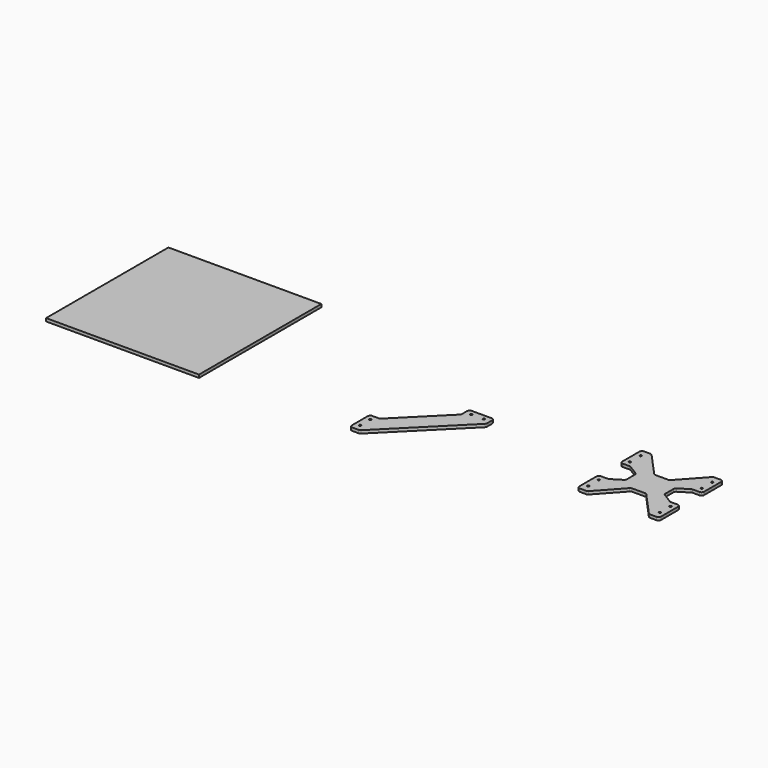
from build123d import *

# Parameters (mm, degrees)
F0_R     = 2
F1_DEPTH = 6
F2_R     = 5
F3_W     = 304.8
F3_H     = 304.8
F4_DEPTH = 6


with BuildPart() as f1:
    # F0 (on Top) → F1 (new body)
    with BuildSketch(Plane.XY):
        Polygon((20.752255, 189.252079), (0.752255, 189.252079), (0.752255, 136.483288), (20.752255, 136.483288), (43.727751, 122.214279), (43.727751, 96.289878), (20.752255, 82.02087), (0.752255, 82.02087), (0.752255, 29.252079), (20.752255, 29.252079), (67.252255, 80.372884), (82.252255, 80.372884), (97.252255, 80.372884), (143.752255, 29.252079), (163.752255, 29.252079), (163.752255, 82.02087), (143.752255, 82.02087), (120.776759, 96.289878), (120.776759, 122.214279), (143.752255, 136.483288), (163.752255, 136.483288), (163.752255, 189.252079), (143.752255, 189.252079), (97.252255, 138.131273), (82.252255, 138.131273), (67.252255, 138.131273), align=None)
        with Locations((10.752255, 43.99876)):
            Circle(F0_R, mode=Mode.SUBTRACT)
        with Locations((10.752255, 70.383156)):
            Circle(F0_R, mode=Mode.SUBTRACT)
        with Locations((153.752255, 43.99876)):
            Circle(F0_R, mode=Mode.SUBTRACT)
        with Locations((153.752255, 70.383156)):
            Circle(F0_R, mode=Mode.SUBTRACT)
        with Locations((10.752255, 148.121001)):
            Circle(F0_R, mode=Mode.SUBTRACT)
        with Locations((10.752255, 174.505397)):
            Circle(F0_R, mode=Mode.SUBTRACT)
        with Locations((153.752255, 148.121001)):
            Circle(F0_R, mode=Mode.SUBTRACT)
        with Locations((153.752255, 174.505397)):
            Circle(F0_R, mode=Mode.SUBTRACT)
        Polygon((-404.153171, 18.474887), (-404.153171, -31.525113), (-384.153171, -31.525113), (-244.153171, 108.474887), (-244.153171, 128.474887), (-264.153171, 128.474887), (-294.153171, 128.474887), (-294.153171, 108.474887), (-384.153171, 18.474887), align=None)
        with Locations((-394.153171, -18.162827)):
            Circle(F0_R, mode=Mode.SUBTRACT)
        with Locations((-394.153171, 6.837173)):
            Circle(F0_R, mode=Mode.SUBTRACT)
        with Locations((-281.653171, 118.474887)):
            Circle(F0_R, mode=Mode.SUBTRACT)
        with Locations((-256.653171, 118.474887)):
            Circle(F0_R, mode=Mode.SUBTRACT)
    extrude(amount=F1_DEPTH)

    # F2
    f2_edges = [f1.edges().sort_by_distance(p)[0] for p in [
        (67.252255, 138.131273, 3),
        (97.252255, 138.131273, 3),
        (143.752255, 189.252079, 3),
        (20.752255, 189.252079, 3),
        (20.752255, 136.483288, 3),
        (43.727751, 122.214279, 3),
        (43.727751, 96.289878, 3),
        (20.752255, 82.02087, 3),
        (0.752255, 189.252079, 3),
        (163.752255, 189.252079, 3),
        (163.752255, 82.02087, 3),
        (0.752255, 82.02087, 3),
        (0.752255, 136.483288, 3),
        (20.752255, 29.252079, 3),
        (67.252255, 80.372884, 3),
        (97.252255, 80.372884, 3),
        (120.776759, 122.214279, 3),
        (143.752255, 136.483288, 3),
        (163.752255, 136.483288, 3),
        (163.752255, 29.252079, 3),
        (143.752255, 29.252079, 3),
        (0.752255, 29.252079, 3),
        (-294.153171, 128.474887, 3),
        (-294.153171, 108.474887, 3),
        (-384.153171, 18.474887, 3),
        (-404.153171, 18.474887, 3),
        (-244.153171, 128.474887, 3),
        (-244.153171, 108.474887, 3),
        (-384.153171, -31.525113, 3),
        (-404.153171, -31.525113, 3),
    ]]
    fillet(f2_edges, radius=F2_R)


with BuildPart() as f4:
    # F3 (on Top) → F4 (new body)
    with BuildSketch(Plane.XY):
        with Locations((-849.220872, 111.214371)):
            Rectangle(F3_W, F3_H)
    extrude(amount=F4_DEPTH)


solid = Compound([f1.part, f4.part])
